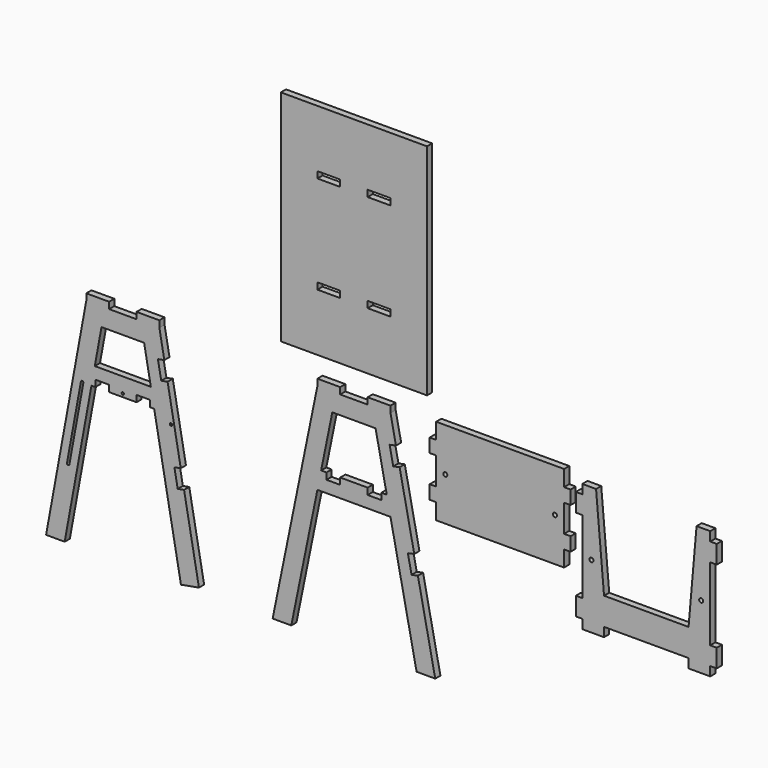
from build123d import *

# Parameters (mm, degrees)
F0_W     = 406.4
F0_H     = 609.6
F0_W_2   = 63.5
F0_H_2   = 18.034
F0_R     = 5.588
F0_W_3   = 18.034
F0_H_3   = 38.1
F0_H_4   = 50.8
F0_R_2   = 3.302
F1_DEPTH = 18.034


with BuildPart() as f1:
    # F0 (on Front) → F1 (new body)
    with BuildSketch(Plane.XZ):
        with Locations((0, 381)):
            Rectangle(F0_W, F0_H)
        with Locations((-69.85, 244.983)):
            Rectangle(F0_W_2, F0_H_2, mode=Mode.SUBTRACT)
        with Locations((69.85, 244.983)):
            Rectangle(F0_W_2, F0_H_2, mode=Mode.SUBTRACT)
        with Locations((-69.85, 517.017)):
            Rectangle(F0_W_2, F0_H_2, mode=Mode.SUBTRACT)
        with Locations((69.85, 517.017)):
            Rectangle(F0_W_2, F0_H_2, mode=Mode.SUBTRACT)
        Polygon((-38.1, 0), (-101.6, 0), (-226.034079, -609.6), (-174.186546, -609.6), (-101.6, -254), (101.6, -254), (174.186546, -609.6), (226.034079, -609.6), (177.8, -373.302237), (160.130361, -376.909037), (149.970361, -327.135405), (167.64, -323.528605), (127, -124.434079), (109.330361, -128.040879), (99.170361, -78.267247), (116.84, -74.660447), (101.6, 0), (38.1, 0), align=None)
        Polygon((-91.230493, -203.2), (-60.121974, -50.8), (60.121974, -50.8), (91.230493, -203.2), (76.2, -203.2), (76.2, -221.234), (38.1, -221.234), (38.1, -203.2), (-38.1, -203.2), (-38.1, -221.234), (-76.2, -221.234), (-76.2, -203.2), align=None, mode=Mode.SUBTRACT)
        with Locations((69.85, 9.017)):
            Rectangle(F0_W_2, F0_H_2)
        with Locations((-69.85, 9.017)):
            Rectangle(F0_W_2, F0_H_2)
        Polygon((228.6, -176.784), (228.6, -221.234), (584.2, -221.234), (584.2, -176.784), (584.2, -138.684), (584.2, -62.484), (584.2, -24.384), (584.2, 20.066), (228.6, 20.066), (228.6, -24.384), (228.6, -62.484), (228.6, -138.684), align=None)
        with Locations((254, -100.584)):
            Circle(F0_R, mode=Mode.SUBTRACT)
        with Locations((558.8, -100.584)):
            Circle(F0_R, mode=Mode.SUBTRACT)
        with Locations((219.583, -43.434)):
            Rectangle(F0_W_3, F0_H_3)
        with Locations((219.583, -157.734)):
            Rectangle(F0_W_3, F0_H_3)
        with Locations((593.217, -157.734)):
            Rectangle(F0_W_3, F0_H_3)
        with Locations((593.217, -43.434)):
            Rectangle(F0_W_3, F0_H_3)
        Polygon((673.1, 0), (635, 0), (635, -25.4), (635, -76.2), (635, -279.4), (635, -330.2), (635, -355.6), (695.322121, -355.6), (695.322121, -330.2), (812.8, -330.2), (930.277879, -330.2), (930.277879, -355.6), (990.6, -355.6), (990.6, -330.2), (990.6, -279.4), (990.6, -76.2), (990.6, -25.4), (990.6, 0), (952.5, 0), (930.277879, -254), (812.8, -254), (695.322121, -254), align=None)
        with Locations((660.4, -177.8)):
            Circle(F0_R, mode=Mode.SUBTRACT)
        with Locations((965.2, -177.8)):
            Circle(F0_R, mode=Mode.SUBTRACT)
        with Locations((999.617, -50.8)):
            Rectangle(F0_W_3, F0_H_4)
        with Locations((625.983, -50.8)):
            Rectangle(F0_W_3, F0_H_4)
        with Locations((625.983, -304.8)):
            Rectangle(F0_W_3, F0_H_4)
        with Locations((999.617, -304.8)):
            Rectangle(F0_W_3, F0_H_4)
        Polygon((-804.25596, -609.6), (-854.22355, -600.4414), (-855.902238, -609.6), align=None)
        with Locations((-572.718158, 9.017)):
            Rectangle(F0_W_2, F0_H_2)
        with Locations((-712.418158, 9.017)):
            Rectangle(F0_W_2, F0_H_2)
        Polygon((-680.668158, 0), (-744.168158, 0), (-854.22355, -600.4414), (-804.25596, -609.6), (-729.766574, -203.2), (-718.768158, -203.2), (-718.768158, -185.166), (-680.668158, -185.166), (-680.668158, -203.2), (-604.468158, -203.2), (-604.468158, -185.166), (-566.368158, -185.166), (-566.368158, -203.2), (-555.369742, -203.2), (-480.880356, -609.6), (-430.912766, -600.4414), (-472.278657, -374.756924), (-490.017151, -378.008228), (-499.175752, -328.040638), (-481.437257, -324.789335), (-518.071658, -124.918975), (-535.810152, -128.170278), (-544.968752, -78.202688), (-527.230258, -74.951385), (-540.968158, 0), (-604.468158, 0), align=None)
        with BuildLine():
            Line((-797.886576, -414.944052), (-758.962525, -202.581794))
            ThreePointArc((-758.962525, -202.581794), (-754.971507, -199.827188), (-752.2169, -203.818206))
            Line((-752.2169, -203.818206), (-791.140951, -416.180463))
            ThreePointArc((-791.140951, -416.180463), (-795.131969, -418.93507), (-797.886576, -414.944052))
        make_face(mode=Mode.SUBTRACT)
        with Locations((-642.568158, -194.183)):
            Circle(F0_R_2, mode=Mode.SUBTRACT)
        with Locations((-508.623705, -226.479806)):
            Circle(F0_R_2, mode=Mode.SUBTRACT)
        Polygon((-720.455401, -152.4), (-701.833054, -50.8), (-583.303262, -50.8), (-564.680916, -152.4), align=None, mode=Mode.SUBTRACT)
    extrude(amount=F1_DEPTH)


solid = f1.part
